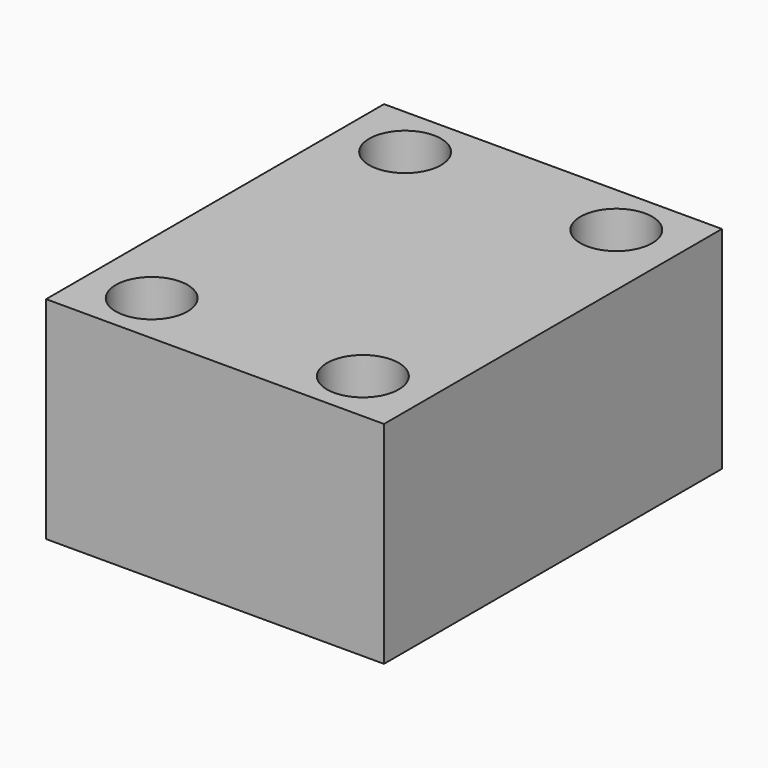
from build123d import *

# Parameters (mm, degrees)
SKETCH_W     = 16
SKETCH_H     = 20
PAD_DEPTH    = 10
SKETCH001_R  = 1.7
POCKET_DEPTH = 12


with BuildPart() as part:
    # Sketch → Pad (new body)
    with BuildSketch(Plane.XY):
        Rectangle(SKETCH_W, SKETCH_H)
    extrude(amount=PAD_DEPTH)

    # Sketch001 (on Face6 of Pad) → Pocket (cut)
    with BuildSketch(Plane.XY.offset(10)):
        with Locations((-5, 7.5)):
            Circle(SKETCH001_R)
        with Locations((5, 7.5)):
            Circle(SKETCH001_R)
        with Locations((-5, -7.5)):
            Circle(SKETCH001_R)
        with Locations((5, -7.5)):
            Circle(SKETCH001_R)
    extrude(amount=-POCKET_DEPTH, mode=Mode.SUBTRACT)


solid = part.part
